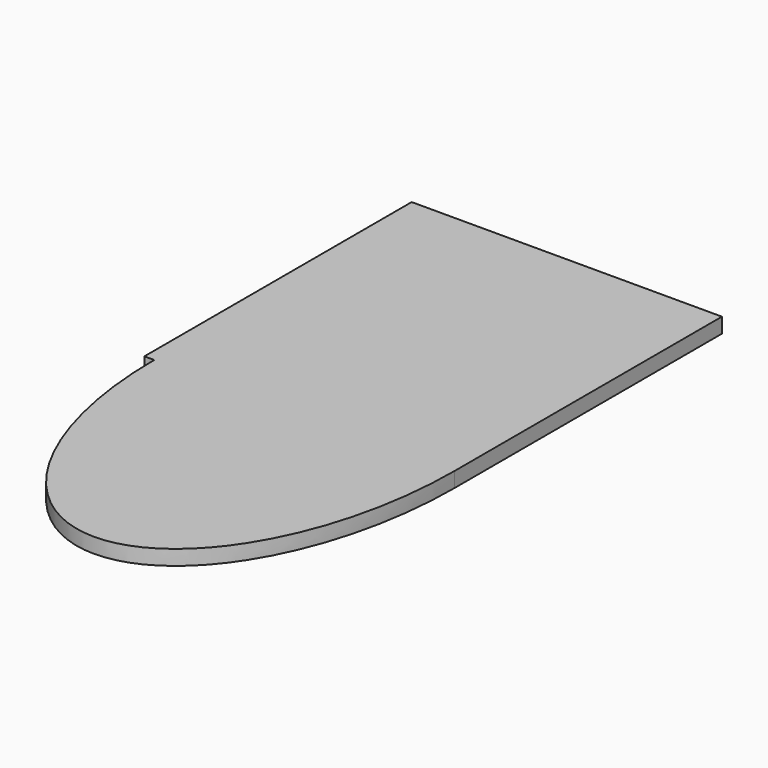
from build123d import *

# Parameters (mm, degrees)
F1_DEPTH = 2.54


with BuildPart() as f1:
    # F0 (on Top) → F1 (new body)
    with BuildSketch(Plane.XY):
        with BuildLine():
            Line((-25.4, 0), (25.4, 0))
            add(Edge.make_bspline(
                [(25.4, 0), (25.4, 44.45), (0, 44.45)],
                knots=[4.7123889804, 4.7123889804, 4.7123889804, 6.2831853072, 6.2831853072, 6.2831853072], degree=2, weights=[1, 0.7071067812, 1]))
            add(Edge.make_bspline(
                [(0, 44.45), (-25.4, 44.45), (-25.4, 0)],
                knots=[0, 0, 0, 1.5707963268, 1.5707963268, 1.5707963268], degree=2, weights=[1, 0.7071067812, 1]))
        make_face()
        with BuildLine():
            add(Edge.make_bspline(
                [(-25.4, 0), (-25.4, -44.45), (0, -44.45), (25.4, -44.45), (25.4, 0)],
                knots=[1.5707963268, 1.5707963268, 1.5707963268, 3.1415926536, 3.1415926536, 4.7123889804, 4.7123889804, 4.7123889804], degree=2, weights=[1, 0.7071067812, 1, 0.7071067812, 1]))
            Line((25.4, 0), (-25.4, 0))
        make_face()
        with BuildLine():
            add(Edge.make_bspline(
                [(25.4, 0), (25.4, 44.45), (0, 44.45)],
                knots=[4.7123889804, 4.7123889804, 4.7123889804, 6.2831853072, 6.2831853072, 6.2831853072], degree=2, weights=[1, 0.7071067812, 1]))
            Line((25.4, 0), (25.4, 56.5074495971))
            Line((25.4, 56.5074495971), (-27.065532282, 56.5074495971))
            Line((-27.065532282, 56.5074495971), (-27.065532282, 0))
            Line((-27.065532282, 0), (-25.4, 0))
            add(Edge.make_bspline(
                [(0, 44.45), (-25.4, 44.45), (-25.4, 0)],
                knots=[0, 0, 0, 1.5707963268, 1.5707963268, 1.5707963268], degree=2, weights=[1, 0.7071067812, 1]))
        make_face()
    extrude(amount=F1_DEPTH)


solid = f1.part
